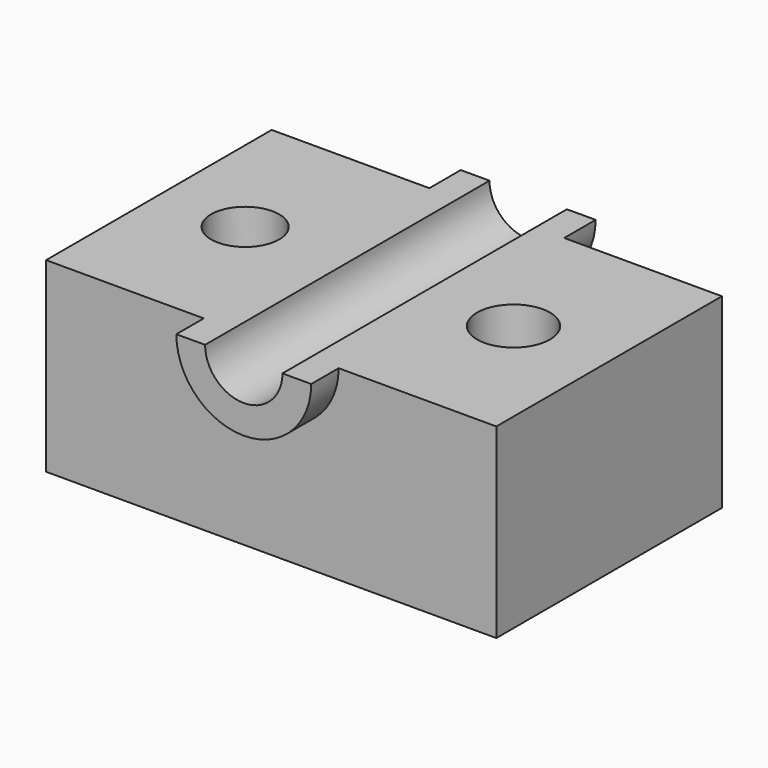
from build123d import *

# Parameters (mm, degrees)
F0_W          = 153.443813324
F0_H          = 96.1026027799
F1_DEPTH      = 63.5
F2_R          = 11.6088535247
F2_R_2        = 12.4265954899
F3_DEPTH      = 25.4
F5_DEPTH      = 96.1036027799
F6_DEPTH      = 109.474
F6_DEPTH_BACK = 11.684


with BuildPart() as f1:
    # F0 (on Top) → F1 (new body)
    with BuildSketch(Plane.XY):
        Rectangle(F0_W, F0_H)
    extrude(amount=F1_DEPTH)

    # F2 (on face) → F3 (cut)
    with BuildSketch(Plane.XY.offset(63.5)):
        with Locations((-47.329030931, 0)):
            Circle(F2_R)
        with Locations((44.1418252885, 0)):
            Circle(F2_R_2)
    extrude(amount=-F3_DEPTH, mode=Mode.SUBTRACT)

    # F4 (on face) → F5 (cut, through all)
    with BuildSketch(Plane.XZ.offset(48.0513013899)):
        with BuildLine():
            ThreePointArc((-13.1851819962, 63.5), (0, 50.3148180038), (13.1851819962, 63.5))
            Line((13.1851819962, 63.5), (-13.1851819962, 63.5))
        make_face()
    extrude(amount=-F5_DEPTH, mode=Mode.SUBTRACT)

    # F4 (on face) → F6 (join, two sides)
    with BuildSketch(Plane.XZ.offset(48.0513013899)) as f6_sk:
        with BuildLine():
            ThreePointArc((-22.9800063856, 63.5), (0, 40.5199936144), (22.9800063856, 63.5))
            Line((22.9800063856, 63.5), (13.1851819962, 63.5))
            ThreePointArc((13.1851819962, 63.5), (0, 50.3148180038), (-13.1851819962, 63.5))
            Line((-13.1851819962, 63.5), (-22.9800063856, 63.5))
        make_face()
    extrude(amount=-F6_DEPTH)
    extrude(f6_sk.sketch, amount=F6_DEPTH_BACK)


solid = f1.part
